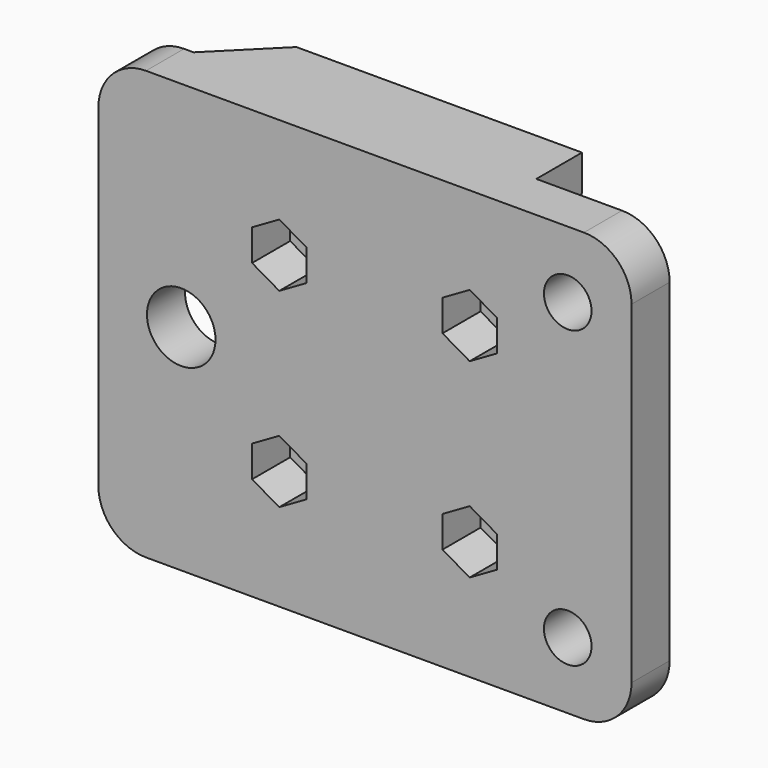
from build123d import *

# Parameters (mm, degrees)
SKETCH050_W     = 56
SKETCH050_H     = 45
SKETCH050_R     = 2.5
SKETCH050_R_2   = 3.6
PAD021_DEPTH    = 5
FILLET004_R     = 5
POCKET019_DEPTH = 5
SKETCH051_R     = 1.6
PAD022_DEPTH    = 6
CHAMFER013_SIZE = 5.9999


with BuildPart() as part:
    # Sketch050 → Pad021 (new body)
    with BuildSketch(Plane.XZ):
        with Locations((-1, 25.5)):
            Rectangle(SKETCH050_W, SKETCH050_H)
        with Locations((20.3, 10)):
            Circle(SKETCH050_R, mode=Mode.SUBTRACT)
        with Locations((20.3, 41)):
            Circle(SKETCH050_R, mode=Mode.SUBTRACT)
        with Locations((-20.3, 25.5)):
            Circle(SKETCH050_R_2, mode=Mode.SUBTRACT)
    extrude(amount=PAD021_DEPTH)

    # Fillet004
    fillet004_edges = [part.edges().sort_by_distance(p)[0] for p in [
        (27, -2.5, 48),
        (27, -2.5, 3),
        (-29, -2.5, 3),
        (-29, -2.5, 48),
    ]]
    fillet(fillet004_edges, radius=FILLET004_R)

    # Sketch049 (on Face2 of Fillet004) → Pocket019 (cut)
    with BuildSketch(Plane(origin=(0, 0, 0), x_dir=(1, 0, 0), z_dir=(0, 1, 0))):
        Polygon((-7.142116, -17.15), (-7.142116, -13.85), (-10, -12.2), (-12.857884, -13.85), (-12.857884, -17.15), (-10, -18.8), align=None)
        Polygon((-7.142116, -33.85), (-10, -32.2), (-12.857884, -33.85), (-12.857884, -37.15), (-10, -38.8), (-7.142116, -37.15), align=None)
        Polygon((12.857884, -37.15), (12.857884, -33.85), (10, -32.2), (7.142116, -33.85), (7.142116, -37.15), (10, -38.8), align=None)
        Polygon((12.857884, -17.15), (12.857884, -13.85), (10, -12.2), (7.142116, -13.85), (7.142116, -17.15), (10, -18.8), align=None)
    extrude(amount=-POCKET019_DEPTH, mode=Mode.SUBTRACT)

    # Sketch051 (on Face2 of Pocket019) → Pad022 (join)
    with BuildSketch(Plane(origin=(0, 0, 0), x_dir=(1, 0, 0), z_dir=(0, 1, 0))):
        with BuildLine():
            ThreePointArc((13, -6.727386), (13.504689, -14.221819), (20, -17.994373))
            Line((20, -17.994373), (27, -17.994373))
            Line((27, -17.994373), (27, -33.005627))
            Line((20, -33.005627), (27, -33.005627))
            ThreePointArc((20, -33.005627), (13.504689, -36.778181), (13, -44.272614))
            Line((13, -44.272614), (13, -48))
            Line((-17, -48), (13, -48))
            Line((-17, -33.873171), (-17, -48))
            ThreePointArc((-17, -33.873171), (-11.3, -25.5), (-17, -17.126829))
            Line((-17, -17.126829), (-17, -3))
            Line((-17, -3), (13, -3))
            Line((13, -6.727386), (13, -3))
        make_face()
        with Locations((-10, -15.5)):
            Circle(SKETCH051_R, mode=Mode.SUBTRACT)
        with Locations((10, -15.5)):
            Circle(SKETCH051_R, mode=Mode.SUBTRACT)
        with Locations((10, -35.5)):
            Circle(SKETCH051_R, mode=Mode.SUBTRACT)
        with Locations((-10, -35.5)):
            Circle(SKETCH051_R, mode=Mode.SUBTRACT)
    extrude(amount=PAD022_DEPTH)

    # Chamfer013
    chamfer013_edges = [part.edges().sort_by_distance(p)[0] for p in [
        (-17, 0, 40.936586),
        (-17, 0, 10.063414),
        (27, 6, 25.5),
    ]]
    chamfer(chamfer013_edges, length=CHAMFER013_SIZE)


with BuildPart() as part_1:
    # Body010 placement: moved
    add(part.part.moved(Location((0, 16.5, 0))))


solid = part_1.part
